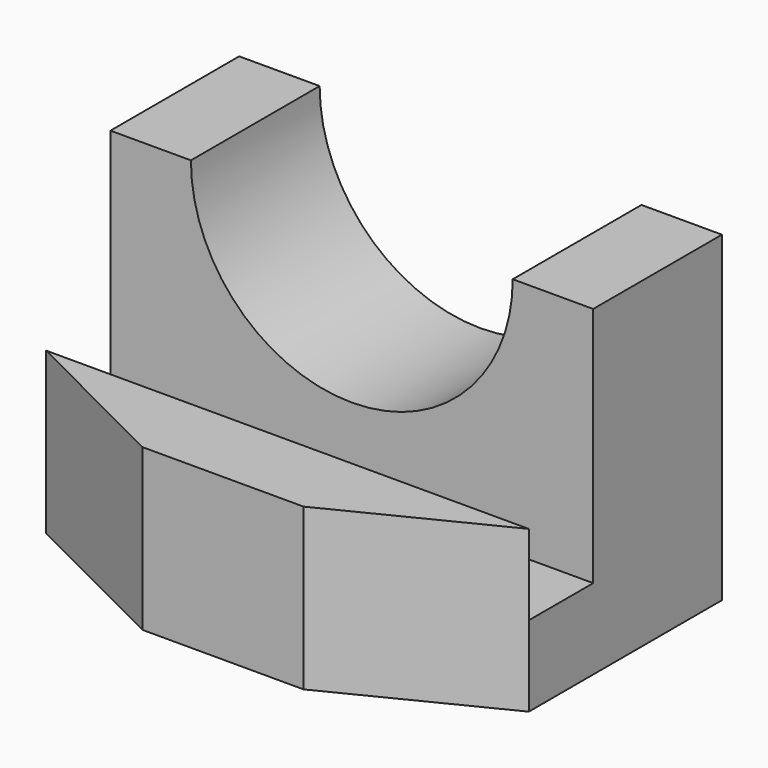
from build123d import *

# Parameters (mm, degrees)
F0_W     = 60
F0_H     = 20
F1_DEPTH = 40
F0_H_2   = 10
F2_DEPTH = 10
F3_DEPTH = 20
F5_DEPTH = 20.001


with BuildPart() as f1:
    # F0 (on Top) → F1 (new body)
    with BuildSketch(Plane.XY):
        with Locations((30, 10)):
            Rectangle(F0_W, F0_H)
    extrude(amount=F1_DEPTH)

    # F0 (on Top) → F2 (join)
    with BuildSketch(Plane.XY):
        with Locations((30, -5)):
            Rectangle(F0_W, F0_H_2)
    extrude(amount=F2_DEPTH)

    # F0 (on Top) → F3 (join)
    with BuildSketch(Plane.XY):
        Polygon((60, -10), (0, -10), (20, -20), (40, -20), align=None)
    extrude(amount=F3_DEPTH)

    # F4 (on face) → F5 (cut, through all)
    with BuildSketch(Plane.XZ):
        with BuildLine():
            Line((50, 40), (10, 40))
            ThreePointArc((10, 40), (30, 20), (50, 40))
        make_face()
    extrude(amount=-F5_DEPTH, mode=Mode.SUBTRACT)


solid = f1.part
